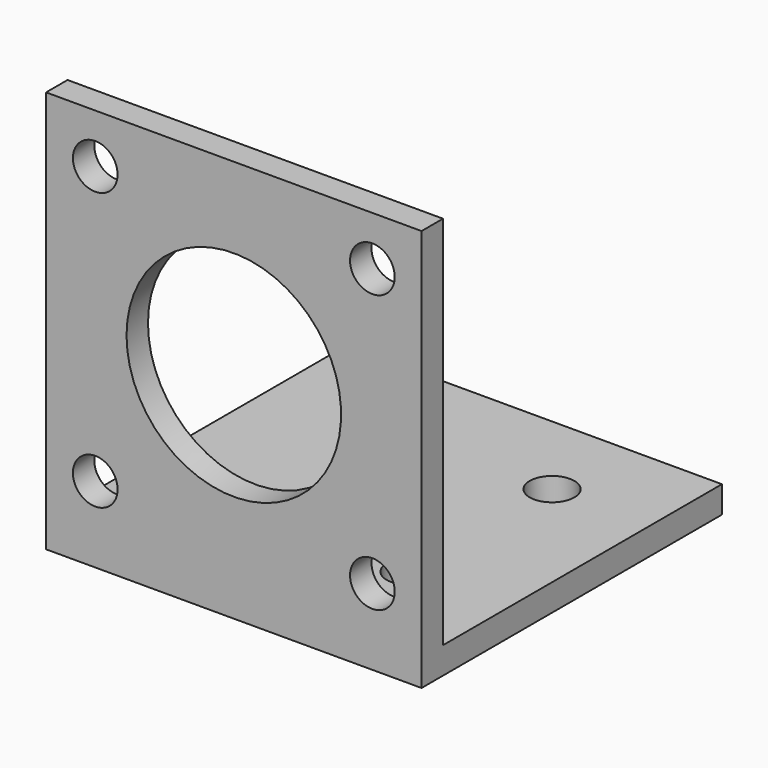
from build123d import *

# Parameters (mm, degrees)
F0_W     = 42
F0_H     = 39
F1_DEPTH = 3
F0_H_2   = 3
F2_DEPTH = 45
F4_D     = 5
F6_D     = 5
F7_R     = 12
F8_DEPTH = 25


with BuildPart() as f1:
    # F0 (on Top) → F1 (new body)
    with BuildSketch(Plane.XY):
        with Locations((0, 1.5)):
            Rectangle(F0_W, F0_H)
    extrude(amount=F1_DEPTH)

    # F0 (on Top) → F2 (join)
    with BuildSketch(Plane.XY):
        with Locations((0, -19.5)):
            Rectangle(F0_W, F0_H_2)
    extrude(amount=F2_DEPTH)

    # F4 (through all)
    with Locations(Plane.XY.offset(3)):
        with Locations((10, -9), (10, 11), (-10, 11), (-10, -9)):
            Hole(F4_D / 2)

    # F6 (through all)
    with Locations(Plane(origin=(0, -18, 0), x_dir=(-1, 0, 0), z_dir=(0, 1, 0))):
        with Locations((-15.5, 39.5), (-15.5, 8.5), (15.5, 8.5), (15.5, 39.5)):
            Hole(F6_D / 2)

    # F7 (on face) → F8 (cut)
    with BuildSketch(Plane(origin=(0, -18, 0), x_dir=(-1, 0, 0), z_dir=(0, 1, 0))):
        with Locations((0, 24)):
            Circle(F7_R)
    extrude(amount=-F8_DEPTH, mode=Mode.SUBTRACT)


solid = f1.part
